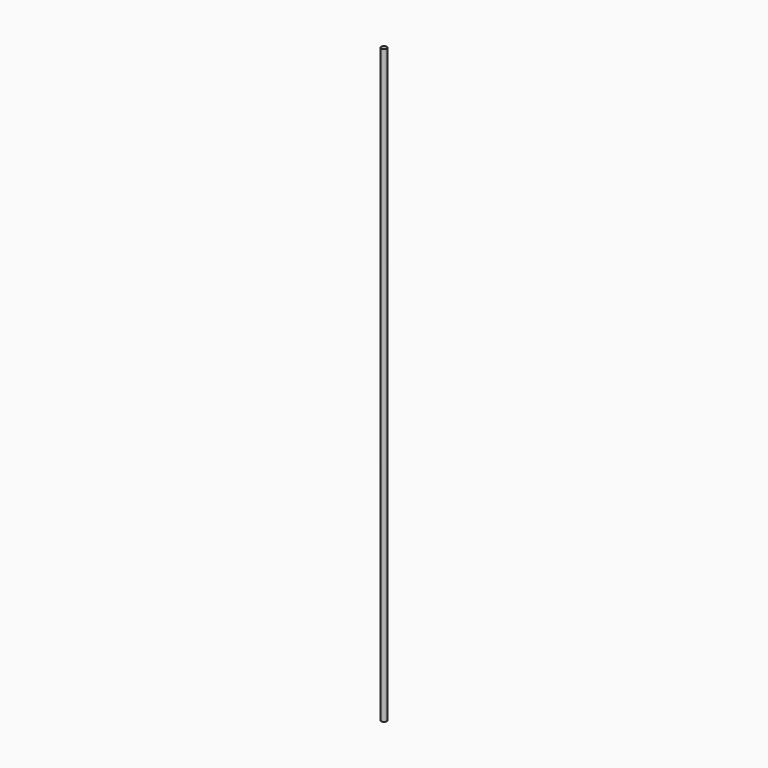
from build123d import *

# Parameters (mm, degrees)
CYLINDER_R     = 4
CYLINDER_DEPTH = 900


with BuildPart() as part:
    # Cylinder → Cylinder (new body)
    with BuildSketch(Plane.XY):
        Circle(CYLINDER_R)
    extrude(amount=CYLINDER_DEPTH)


solid = part.part
